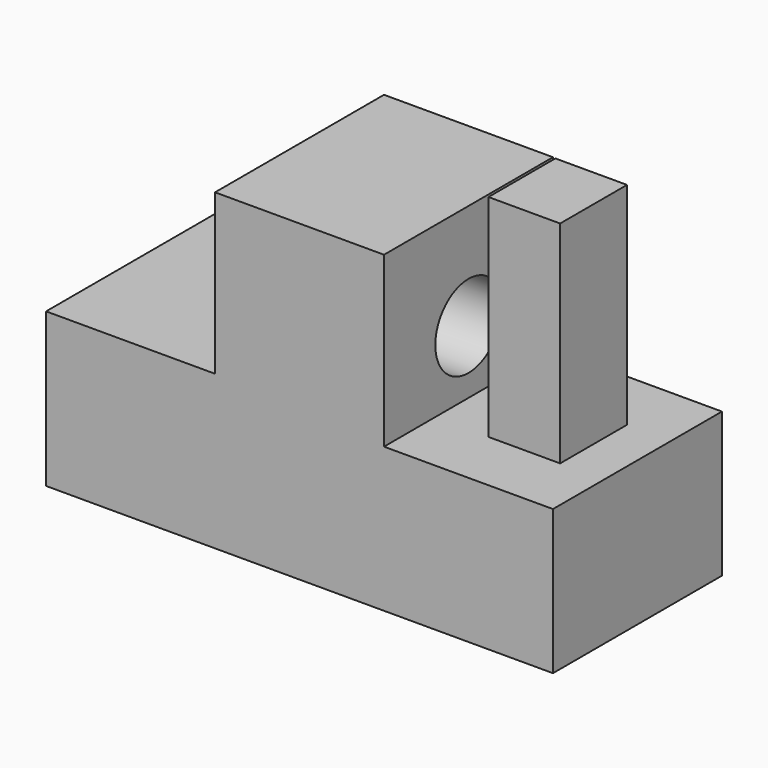
from build123d import *

# Parameters (mm, degrees)
F1_DEPTH = 12.5
F2_R     = 4.907825
F3_DEPTH = 40.001
F4_W     = 8.482946
F4_H     = 9.896773
F5_DEPTH = 25


with BuildPart() as f1:
    # F0 (on Front) → F1 (new body, symmetric)
    with BuildSketch(Plane.XZ):
        Polygon((-26.978808, 25.542999), (-26.978808, 7.346645), (33.021192, 7.346645), (33.021192, 24.45209), (13.021192, 24.45209), (13.021192, 44.452089), (-6.978808, 44.452089), (-6.978808, 25.542999), align=None)
    extrude(amount=F1_DEPTH, both=True)

    # F2 (on face) → F3 (cut, through all)
    with BuildSketch(Plane.YZ.offset(13.021192)):
        with Locations((0, 31.952426)):
            Circle(F2_R)
    extrude(amount=-F3_DEPTH, mode=Mode.SUBTRACT)

    # F4 (on face) → F5 (join)
    with BuildSketch(Plane.XY.offset(24.45209)):
        with Locations((23.586721, 0)):
            Rectangle(F4_W, F4_H)
    extrude(amount=F5_DEPTH)


solid = f1.part
